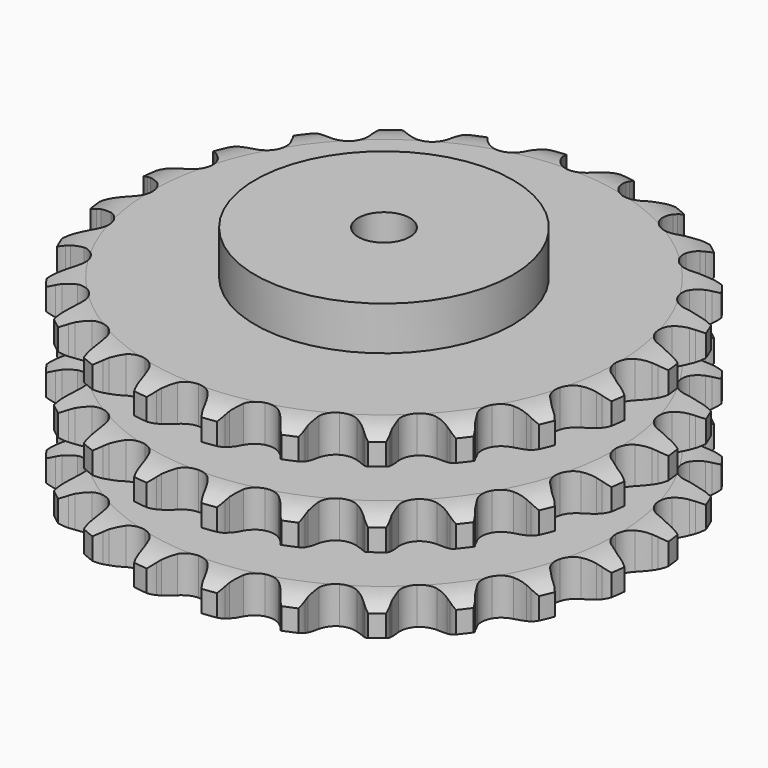
from build123d import *

# Parameters (mm, degrees)
PAD_DEPTH         = 146
SKETCH001_R       = 100
PAD001_DEPTH      = 180
SKETCH002_R       = 20
POCKET_DEPTH      = 0.001
POCKET_DEPTH_BACK = 180.001


with BuildPart() as part:
    # Sprocket → Pad (new body)
    with BuildSketch(Plane.XY):
        with BuildLine():
            ThreePointArc((-27.581338, 209.501065), (-22.02322, 204.580511), (-18.231536, 198.198689))
            Line((-18.231536, 198.198689), (-16.813255, 194.658707))
            ThreePointArc((-16.813255, 194.658707), (-14.552962, 189.972635), (-11.675087, 185.638349))
            ThreePointArc((-11.675087, 185.638349), (-6.508776, 181.398467), (0, 179.880833))
            ThreePointArc((0, 179.880833), (6.508776, 181.398467), (11.675087, 185.638349))
            ThreePointArc((11.675087, 185.638349), (14.552962, 189.972635), (16.813255, 194.658707))
            Line((16.813255, 194.658707), (18.231536, 198.198689))
            ThreePointArc((18.231536, 198.198689), (22.02322, 204.580511), (27.581338, 209.501065))
            ThreePointArc((27.581338, 209.501065), (31.676535, 203.309628), (33.687283, 196.163901))
            Line((33.687283, 196.163901), (34.141023, 192.377463))
            ThreePointArc((34.141023, 192.377463), (35.111454, 187.266058), (36.769472, 182.334611))
            ThreePointArc((36.769472, 182.334611), (40.662384, 176.902059), (46.556586, 173.751543))
            ThreePointArc((46.556586, 173.751543), (53.236373, 173.532869), (59.324008, 176.291141))
            Line((59.324008, 176.291141), (66.621738, 183.674282))
            ThreePointArc((66.621738, 183.674282), (67.726594, 185.229056), (68.907907, 186.726563))
            ThreePointArc((68.907907, 186.726563), (74.22213, 191.90957), (80.864393, 195.223913))
            ThreePointArc((80.864393, 195.223913), (83.217587, 188.18353), (83.310371, 180.760868))
            Line((83.310371, 180.760868), (82.768647, 176.986013))
            ThreePointArc((82.768647, 176.986013), (82.383082, 171.797609), (82.708253, 166.60507))
            ThreePointArc((82.708253, 166.60507), (85.062468, 160.350068), (89.940417, 155.781371))
            ThreePointArc((89.940417, 155.781371), (96.335999, 153.841293), (102.930096, 154.929983))
            Line((102.930096, 154.929983), (111.89006, 160.172758))
            ThreePointArc((111.89006, 160.172758), (113.359674, 161.388596), (114.888318, 162.529331))
            ThreePointArc((114.888318, 162.529331), (121.362924, 166.16031), (128.636672, 167.642575))
            ThreePointArc((128.636672, 167.642575), (129.087498, 160.233035), (127.255994, 153.03928))
            Line((127.255994, 153.03928), (125.755725, 149.533258))
            ThreePointArc((125.755725, 149.533258), (124.04044, 144.621437), (123.010602, 139.521669))
            ThreePointArc((123.010602, 139.521669), (123.665687, 132.870486), (127.194957, 127.194957))
            ThreePointArc((127.194957, 127.194957), (132.870486, 123.665687), (139.521669, 123.010602))
            Line((139.521669, 123.010602), (149.533258, 125.755725))
            ThreePointArc((149.533258, 125.755725), (151.267479, 126.549771), (153.03928, 127.255994))
            ThreePointArc((153.03928, 127.255994), (160.233035, 129.087498), (167.642575, 128.636672))
            ThreePointArc((167.642575, 128.636672), (166.16031, 121.362924), (162.529331, 114.888318))
            Line((162.529331, 114.888318), (160.172758, 111.89006))
            ThreePointArc((160.172758, 111.89006), (157.244646, 107.589552), (154.929983, 102.930096))
            ThreePointArc((154.929983, 102.930096), (153.841293, 96.335999), (155.781371, 89.940417))
            ThreePointArc((155.781371, 89.940417), (160.350068, 85.062468), (166.60507, 82.708253))
            Line((166.60507, 82.708253), (176.986013, 82.768647))
            ThreePointArc((176.986013, 82.768647), (178.866655, 83.086788), (180.760868, 83.310371))
            ThreePointArc((180.760868, 83.310371), (188.18353, 83.217587), (195.223913, 80.864393))
            ThreePointArc((195.223913, 80.864393), (191.90957, 74.22213), (186.726563, 68.907907))
            Line((186.726563, 68.907907), (183.674282, 66.621738))
            ThreePointArc((183.674282, 66.621738), (179.73289, 63.225618), (176.291141, 59.324008))
            ThreePointArc((176.291141, 59.324008), (173.532869, 53.236373), (173.751543, 46.556586))
            ThreePointArc((173.751543, 46.556586), (176.902059, 40.662384), (182.334611, 36.769472))
            Line((182.334611, 36.769472), (192.377463, 34.141023))
            ThreePointArc((192.377463, 34.141023), (194.276365, 33.961577), (196.163901, 33.687283))
            ThreePointArc((196.163901, 33.687283), (203.309628, 31.676535), (209.501065, 27.581338))
            ThreePointArc((209.501065, 27.581338), (204.580511, 22.02322), (198.198689, 18.231536))
            Line((198.198689, 18.231536), (194.658707, 16.813255))
            ThreePointArc((194.658707, 16.813255), (189.972635, 14.552962), (185.638349, 11.675087))
            ThreePointArc((185.638349, 11.675087), (181.398467, 6.508776), (179.880833, 0))
            ThreePointArc((179.880833, 0), (181.398467, -6.508776), (185.638349, -11.675087))
            Line((185.638349, -11.675087), (194.658707, -16.813255))
            ThreePointArc((194.658707, -16.813255), (196.446461, -17.478059), (198.198689, -18.231536))
            ThreePointArc((198.198689, -18.231536), (204.580511, -22.02322), (209.501065, -27.581338))
            ThreePointArc((209.501065, -27.581338), (203.309628, -31.676535), (196.163901, -33.687283))
            Line((196.163901, -33.687283), (192.377463, -34.141023))
            ThreePointArc((192.377463, -34.141023), (187.266058, -35.111454), (182.334611, -36.769472))
            ThreePointArc((182.334611, -36.769472), (176.902059, -40.662384), (173.751543, -46.556586))
            ThreePointArc((173.751543, -46.556586), (173.532869, -53.236373), (176.291141, -59.324008))
            Line((176.291141, -59.324008), (183.674282, -66.621738))
            ThreePointArc((183.674282, -66.621738), (185.229056, -67.726594), (186.726563, -68.907907))
            ThreePointArc((186.726563, -68.907907), (191.90957, -74.22213), (195.223913, -80.864393))
            ThreePointArc((195.223913, -80.864393), (188.18353, -83.217587), (180.760868, -83.310371))
            Line((180.760868, -83.310371), (176.986013, -82.768647))
            ThreePointArc((176.986013, -82.768647), (171.797609, -82.383082), (166.60507, -82.708253))
            ThreePointArc((166.60507, -82.708253), (160.350068, -85.062468), (155.781371, -89.940417))
            ThreePointArc((155.781371, -89.940417), (153.841293, -96.335999), (154.929983, -102.930096))
            Line((154.929983, -102.930096), (160.172758, -111.89006))
            ThreePointArc((160.172758, -111.89006), (161.388596, -113.359674), (162.529331, -114.888318))
            ThreePointArc((162.529331, -114.888318), (166.16031, -121.362924), (167.642575, -128.636672))
            ThreePointArc((167.642575, -128.636672), (160.233035, -129.087498), (153.03928, -127.255994))
            Line((153.03928, -127.255994), (149.533258, -125.755725))
            ThreePointArc((149.533258, -125.755725), (144.621437, -124.04044), (139.521669, -123.010602))
            ThreePointArc((139.521669, -123.010602), (132.870486, -123.665687), (127.194957, -127.194957))
            ThreePointArc((127.194957, -127.194957), (123.665687, -132.870486), (123.010602, -139.521669))
            Line((123.010602, -139.521669), (125.755725, -149.533258))
            ThreePointArc((125.755725, -149.533258), (126.549771, -151.267479), (127.255994, -153.03928))
            ThreePointArc((127.255994, -153.03928), (129.087498, -160.233035), (128.636672, -167.642575))
            ThreePointArc((128.636672, -167.642575), (121.362924, -166.16031), (114.888318, -162.529331))
            Line((114.888318, -162.529331), (111.89006, -160.172758))
            ThreePointArc((111.89006, -160.172758), (107.589552, -157.244646), (102.930096, -154.929983))
            ThreePointArc((102.930096, -154.929983), (96.335999, -153.841293), (89.940417, -155.781371))
            ThreePointArc((89.940417, -155.781371), (85.062468, -160.350068), (82.708253, -166.60507))
            Line((82.708253, -166.60507), (82.768647, -176.986013))
            ThreePointArc((82.768647, -176.986013), (83.086788, -178.866655), (83.310371, -180.760868))
            ThreePointArc((83.310371, -180.760868), (83.217587, -188.18353), (80.864393, -195.223913))
            ThreePointArc((80.864393, -195.223913), (74.22213, -191.90957), (68.907907, -186.726563))
            Line((68.907907, -186.726563), (66.621738, -183.674282))
            ThreePointArc((66.621738, -183.674282), (63.225618, -179.73289), (59.324008, -176.291141))
            ThreePointArc((59.324008, -176.291141), (53.236373, -173.532869), (46.556586, -173.751543))
            ThreePointArc((46.556586, -173.751543), (40.662384, -176.902059), (36.769472, -182.334611))
            Line((36.769472, -182.334611), (34.141023, -192.377463))
            ThreePointArc((34.141023, -192.377463), (33.961577, -194.276365), (33.687283, -196.163901))
            ThreePointArc((33.687283, -196.163901), (31.676535, -203.309628), (27.581338, -209.501065))
            ThreePointArc((27.581338, -209.501065), (22.02322, -204.580511), (18.231536, -198.198689))
            Line((18.231536, -198.198689), (16.813255, -194.658707))
            ThreePointArc((16.813255, -194.658707), (14.552962, -189.972635), (11.675087, -185.638349))
            ThreePointArc((11.675087, -185.638349), (6.508776, -181.398467), (0, -179.880833))
            ThreePointArc((0, -179.880833), (-6.508776, -181.398467), (-11.675087, -185.638349))
            Line((-11.675087, -185.638349), (-16.813255, -194.658707))
            ThreePointArc((-16.813255, -194.658707), (-17.478059, -196.446461), (-18.231536, -198.198689))
            ThreePointArc((-18.231536, -198.198689), (-22.02322, -204.580511), (-27.581338, -209.501065))
            ThreePointArc((-27.581338, -209.501065), (-31.676535, -203.309628), (-33.687283, -196.163901))
            Line((-33.687283, -196.163901), (-34.141023, -192.377463))
            ThreePointArc((-34.141023, -192.377463), (-35.111454, -187.266058), (-36.769472, -182.334611))
            ThreePointArc((-36.769472, -182.334611), (-40.662384, -176.902059), (-46.556586, -173.751543))
            ThreePointArc((-46.556586, -173.751543), (-53.236373, -173.532869), (-59.324008, -176.291141))
            Line((-59.324008, -176.291141), (-66.621738, -183.674282))
            ThreePointArc((-66.621738, -183.674282), (-67.726594, -185.229056), (-68.907907, -186.726563))
            ThreePointArc((-68.907907, -186.726563), (-74.22213, -191.90957), (-80.864393, -195.223913))
            ThreePointArc((-80.864393, -195.223913), (-83.217587, -188.18353), (-83.310371, -180.760868))
            Line((-83.310371, -180.760868), (-82.768647, -176.986013))
            ThreePointArc((-82.768647, -176.986013), (-82.383082, -171.797609), (-82.708253, -166.60507))
            ThreePointArc((-82.708253, -166.60507), (-85.062468, -160.350068), (-89.940417, -155.781371))
            ThreePointArc((-89.940417, -155.781371), (-96.335999, -153.841293), (-102.930096, -154.929983))
            Line((-102.930096, -154.929983), (-111.89006, -160.172758))
            ThreePointArc((-111.89006, -160.172758), (-113.359674, -161.388596), (-114.888318, -162.529331))
            ThreePointArc((-114.888318, -162.529331), (-121.362924, -166.16031), (-128.636672, -167.642575))
            ThreePointArc((-128.636672, -167.642575), (-129.087498, -160.233035), (-127.255994, -153.03928))
            Line((-127.255994, -153.03928), (-125.755725, -149.533258))
            ThreePointArc((-125.755725, -149.533258), (-124.04044, -144.621437), (-123.010602, -139.521669))
            ThreePointArc((-123.010602, -139.521669), (-123.665687, -132.870486), (-127.194957, -127.194957))
            ThreePointArc((-127.194957, -127.194957), (-132.870486, -123.665687), (-139.521669, -123.010602))
            Line((-139.521669, -123.010602), (-149.533258, -125.755725))
            ThreePointArc((-149.533258, -125.755725), (-151.267479, -126.549771), (-153.03928, -127.255994))
            ThreePointArc((-153.03928, -127.255994), (-160.233035, -129.087498), (-167.642575, -128.636672))
            ThreePointArc((-167.642575, -128.636672), (-166.16031, -121.362924), (-162.529331, -114.888318))
            Line((-162.529331, -114.888318), (-160.172758, -111.89006))
            ThreePointArc((-160.172758, -111.89006), (-157.244646, -107.589552), (-154.929983, -102.930096))
            ThreePointArc((-154.929983, -102.930096), (-153.841293, -96.335999), (-155.781371, -89.940417))
            ThreePointArc((-155.781371, -89.940417), (-160.350068, -85.062468), (-166.60507, -82.708253))
            Line((-166.60507, -82.708253), (-176.986013, -82.768647))
            ThreePointArc((-176.986013, -82.768647), (-178.866655, -83.086788), (-180.760868, -83.310371))
            ThreePointArc((-180.760868, -83.310371), (-188.18353, -83.217587), (-195.223913, -80.864393))
            ThreePointArc((-195.223913, -80.864393), (-191.90957, -74.22213), (-186.726563, -68.907907))
            Line((-186.726563, -68.907907), (-183.674282, -66.621738))
            ThreePointArc((-183.674282, -66.621738), (-179.73289, -63.225618), (-176.291141, -59.324008))
            ThreePointArc((-176.291141, -59.324008), (-173.532869, -53.236373), (-173.751543, -46.556586))
            ThreePointArc((-173.751543, -46.556586), (-176.902059, -40.662384), (-182.334611, -36.769472))
            Line((-182.334611, -36.769472), (-192.377463, -34.141023))
            ThreePointArc((-192.377463, -34.141023), (-194.276365, -33.961577), (-196.163901, -33.687283))
            ThreePointArc((-196.163901, -33.687283), (-203.309628, -31.676535), (-209.501065, -27.581338))
            ThreePointArc((-209.501065, -27.581338), (-204.580511, -22.02322), (-198.198689, -18.231536))
            Line((-198.198689, -18.231536), (-194.658707, -16.813255))
            ThreePointArc((-194.658707, -16.813255), (-189.972635, -14.552962), (-185.638349, -11.675087))
            ThreePointArc((-185.638349, -11.675087), (-181.398467, -6.508776), (-179.880833, 0))
            ThreePointArc((-179.880833, 0), (-181.398467, 6.508776), (-185.638349, 11.675087))
            Line((-185.638349, 11.675087), (-194.658707, 16.813255))
            ThreePointArc((-194.658707, 16.813255), (-196.446461, 17.478059), (-198.198689, 18.231536))
            ThreePointArc((-198.198689, 18.231536), (-204.580511, 22.02322), (-209.501065, 27.581338))
            ThreePointArc((-209.501065, 27.581338), (-203.309628, 31.676535), (-196.163901, 33.687283))
            Line((-196.163901, 33.687283), (-192.377463, 34.141023))
            ThreePointArc((-192.377463, 34.141023), (-187.266058, 35.111454), (-182.334611, 36.769472))
            ThreePointArc((-182.334611, 36.769472), (-176.902059, 40.662384), (-173.751543, 46.556586))
            ThreePointArc((-173.751543, 46.556586), (-173.532869, 53.236373), (-176.291141, 59.324008))
            Line((-176.291141, 59.324008), (-183.674282, 66.621738))
            ThreePointArc((-183.674282, 66.621738), (-185.229056, 67.726594), (-186.726563, 68.907907))
            ThreePointArc((-186.726563, 68.907907), (-191.90957, 74.22213), (-195.223913, 80.864393))
            ThreePointArc((-195.223913, 80.864393), (-188.18353, 83.217587), (-180.760868, 83.310371))
            Line((-180.760868, 83.310371), (-176.986013, 82.768647))
            ThreePointArc((-176.986013, 82.768647), (-171.797609, 82.383082), (-166.60507, 82.708253))
            ThreePointArc((-166.60507, 82.708253), (-160.350068, 85.062468), (-155.781371, 89.940417))
            ThreePointArc((-155.781371, 89.940417), (-153.841293, 96.335999), (-154.929983, 102.930096))
            Line((-154.929983, 102.930096), (-160.172758, 111.89006))
            ThreePointArc((-160.172758, 111.89006), (-161.388596, 113.359674), (-162.529331, 114.888318))
            ThreePointArc((-162.529331, 114.888318), (-166.16031, 121.362924), (-167.642575, 128.636672))
            ThreePointArc((-167.642575, 128.636672), (-160.233035, 129.087498), (-153.03928, 127.255994))
            Line((-153.03928, 127.255994), (-149.533258, 125.755725))
            ThreePointArc((-149.533258, 125.755725), (-144.621437, 124.04044), (-139.521669, 123.010602))
            ThreePointArc((-139.521669, 123.010602), (-132.870486, 123.665687), (-127.194957, 127.194957))
            ThreePointArc((-127.194957, 127.194957), (-123.665687, 132.870486), (-123.010602, 139.521669))
            Line((-123.010602, 139.521669), (-125.755725, 149.533258))
            ThreePointArc((-125.755725, 149.533258), (-126.549771, 151.267479), (-127.255994, 153.03928))
            ThreePointArc((-127.255994, 153.03928), (-129.087498, 160.233035), (-128.636672, 167.642575))
            ThreePointArc((-128.636672, 167.642575), (-121.362924, 166.16031), (-114.888318, 162.529331))
            Line((-114.888318, 162.529331), (-111.89006, 160.172758))
            ThreePointArc((-111.89006, 160.172758), (-107.589552, 157.244646), (-102.930096, 154.929983))
            ThreePointArc((-102.930096, 154.929983), (-96.335999, 153.841293), (-89.940417, 155.781371))
            ThreePointArc((-89.940417, 155.781371), (-85.062468, 160.350068), (-82.708253, 166.60507))
            Line((-82.708253, 166.60507), (-82.768647, 176.986013))
            ThreePointArc((-82.768647, 176.986013), (-83.086788, 178.866655), (-83.310371, 180.760868))
            ThreePointArc((-83.310371, 180.760868), (-83.217587, 188.18353), (-80.864393, 195.223913))
            ThreePointArc((-80.864393, 195.223913), (-74.22213, 191.90957), (-68.907907, 186.726563))
            Line((-68.907907, 186.726563), (-66.621738, 183.674282))
            ThreePointArc((-66.621738, 183.674282), (-63.225618, 179.73289), (-59.324008, 176.291141))
            ThreePointArc((-59.324008, 176.291141), (-53.236373, 173.532869), (-46.556586, 173.751543))
            ThreePointArc((-46.556586, 173.751543), (-40.662384, 176.902059), (-36.769472, 182.334611))
            Line((-36.769472, 182.334611), (-34.141023, 192.377463))
            ThreePointArc((-34.141023, 192.377463), (-33.961577, 194.276365), (-33.687283, 196.163901))
            ThreePointArc((-33.687283, 196.163901), (-31.676535, 203.309628), (-27.581338, 209.501065))
        make_face()
    extrude(amount=PAD_DEPTH)

    # Sketch → Groove (revolve, cut)
    with BuildSketch(Plane.XZ):
        with BuildLine():
            ThreePointArc((180.85, 0), (193.219317, 1.522732), (204.85, 6))
            Line((204.85, 6), (204.85, 22.8))
            ThreePointArc((204.85, 22.8), (193.219317, 27.277268), (180.85, 28.8))
            Line((100, 28.8), (180.85, 28.8))
            Line((100, 28.8), (100, 58.6))
            Line((100, 58.6), (180.85, 58.6))
            ThreePointArc((180.85, 58.6), (193.219317, 60.122732), (204.85, 64.6))
            Line((204.85, 81.4), (204.85, 64.6))
            ThreePointArc((204.85, 81.4), (193.219317, 85.877268), (180.85, 87.4))
            Line((100, 87.4), (180.85, 87.4))
            Line((100, 117.2), (100, 87.4))
            Line((180.85, 117.2), (100, 117.2))
            ThreePointArc((180.85, 117.2), (193.219317, 118.722732), (204.85, 123.2))
            Line((204.85, 123.2), (204.85, 140))
            ThreePointArc((204.85, 140), (193.219317, 144.477268), (180.85, 146))
            Line((180.85, 146), (214.85, 146))
            Line((214.85, 146), (214.85, 0))
            Line((180.85, 0), (214.85, 0))
        make_face()
    revolve(axis=Axis((0, 0, 0), (0, 0, 1)), mode=Mode.SUBTRACT)

    # Sketch001 → Pad001 (join)
    with BuildSketch(Plane.XY):
        Circle(SKETCH001_R)
    extrude(amount=PAD001_DEPTH)

    # Sketch002 → Pocket (cut, two sides)
    with BuildSketch(Plane.XY) as pocket_sk:
        Circle(SKETCH002_R)
    extrude(amount=-POCKET_DEPTH, mode=Mode.SUBTRACT)
    extrude(pocket_sk.sketch, amount=POCKET_DEPTH_BACK, mode=Mode.SUBTRACT)


solid = part.part
